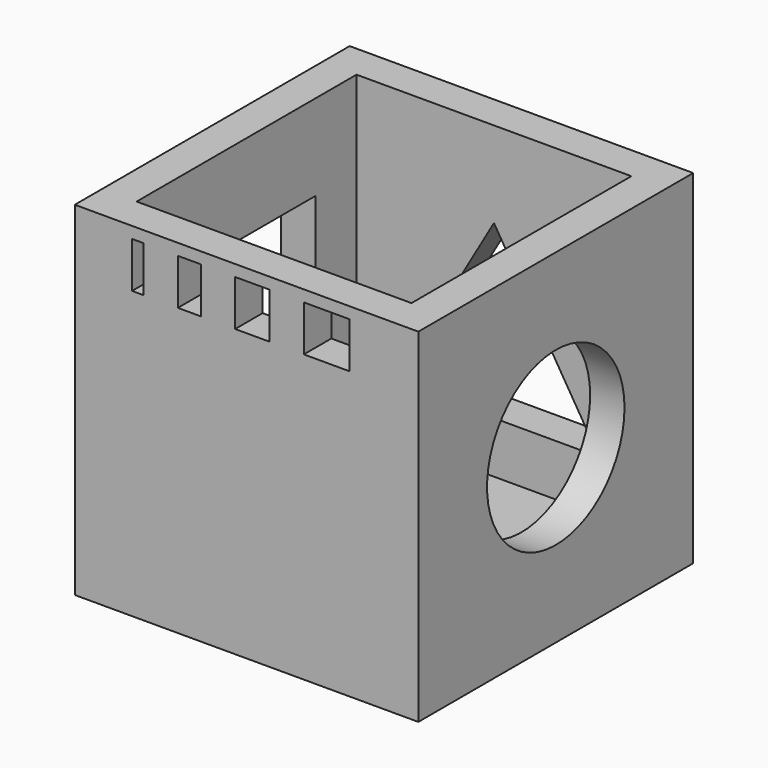
from build123d import *

# Parameters (mm, degrees)
F0_W      = 30
F0_H      = 30
F1_DEPTH  = 30
F2_T      = -3
F3_W      = 15
F3_H      = 15
F4_DEPTH  = 3
F5_R      = 7.5
F6_DEPTH  = 3
F8_DEPTH  = 3
F9_W      = 1
F9_H      = 4
F9_W_2    = 2
F9_W_3    = 3
F9_W_4    = 4
F10_DEPTH = 4


with BuildPart() as f1:
    # F0 (on Top) → F1 (new body)
    with BuildSketch(Plane.XY):
        Rectangle(F0_W, F0_H)
    extrude(amount=F1_DEPTH)

    # F2
    f2_openings = [f1.faces().sort_by_distance(p)[0] for p in [
        (0, 0, 30),
    ]]
    offset(amount=F2_T, openings=f2_openings)

    # F3 (on face) → F4 (cut, through all)
    with BuildSketch(Plane(origin=(-15, 0, 0), x_dir=(0, -1, 0), z_dir=(-1, 0, 0))):
        with Locations((0, 15)):
            Rectangle(F3_W, F3_H)
    extrude(amount=-F4_DEPTH, mode=Mode.SUBTRACT)

    # F5 (on face) → F6 (cut, through all)
    with BuildSketch(Plane.YZ.offset(15)):
        with Locations((0, 15)):
            Circle(F5_R)
    extrude(amount=-F6_DEPTH, mode=Mode.SUBTRACT)

    # F7 (on face) → F8 (cut, through all)
    with BuildSketch(Plane(origin=(0, 15, 0), x_dir=(-1, 0, 0), z_dir=(0, 1, 0))):
        Polygon((8.660254, 7.5), (0, 22.5), (-9.176206, 7.5), align=None)
    extrude(amount=-F8_DEPTH, mode=Mode.SUBTRACT)

    # F9 (on face) → F10 (cut)
    with BuildSketch(Plane.XZ.offset(15)):
        with Locations((-9.5, 27)):
            Rectangle(F9_W, F9_H)
        with Locations((-5, 27)):
            Rectangle(F9_W_2, F9_H)
        with Locations((0.5, 27)):
            Rectangle(F9_W_3, F9_H)
        with Locations((7, 27)):
            Rectangle(F9_W_4, F9_H)
    extrude(amount=-F10_DEPTH, mode=Mode.SUBTRACT)


solid = f1.part
